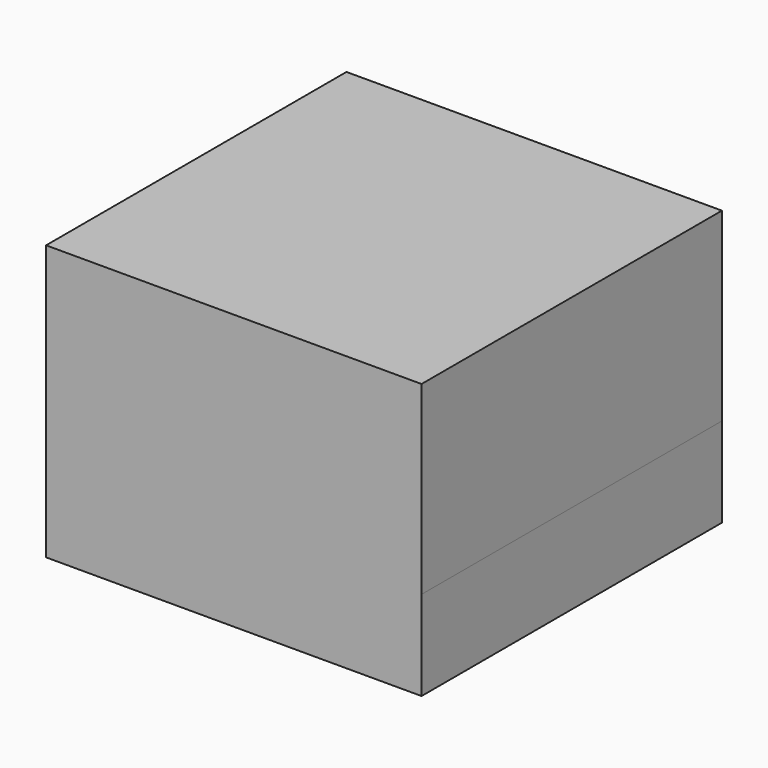
from build123d import *

# Parameters (mm, degrees)
F1_DEPTH  = 10
F1_FACE_W = 41.92406
F1_FACE_H = 41.92406
F2_DEPTH  = 20.67616


with BuildPart() as f1:
    # F0 (on Top) → F1 (new body)
    with BuildSketch(Plane.XY):
        Polygon((0, 41.924059), (0, 0), (41.924059, 0), (41.924059, 41.924059), (38.381182, 41.924059), align=None)
    extrude(amount=F1_DEPTH)

    # F1_face (on face) → F2 (join)
    with BuildSketch(Plane(origin=(20.96203, 20.96203, 10), x_dir=(1, 0, 0), z_dir=(0, 0, 1))):
        Rectangle(F1_FACE_W, F1_FACE_H)
    extrude(amount=F2_DEPTH)


solid = f1.part
